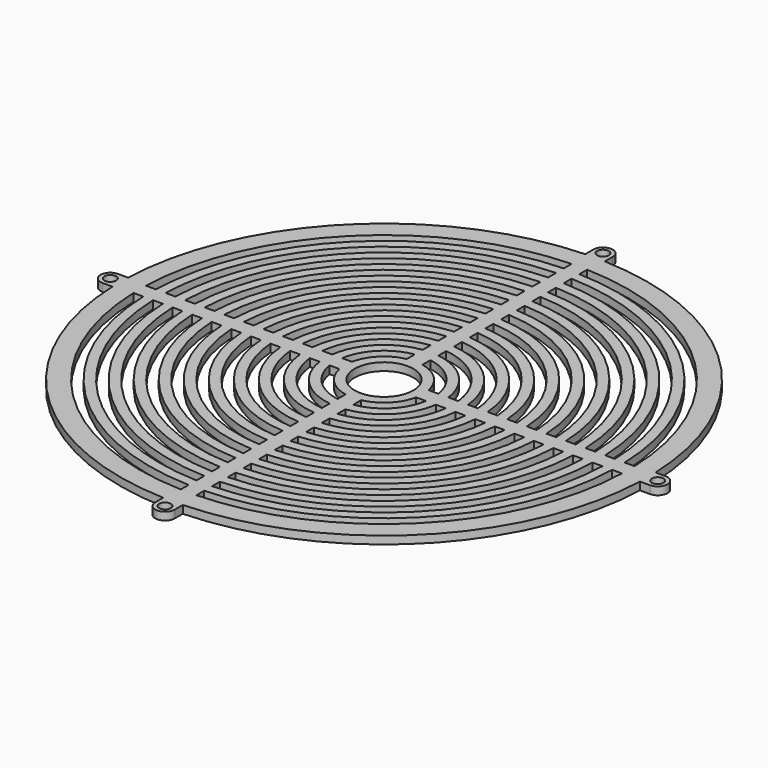
from build123d import *

# Parameters (mm, degrees)
F0_R     = 7.5
F1_DEPTH = 2
F2_D     = 3
F2_DEPTH = 4.5


with BuildPart() as f1:
    # F0 (on Top) → F1 (new body)
    with BuildSketch(Plane.XY):
        with BuildLine():
            Line((-2.5, 70), (-2.5, 67.453688))
            ThreePointArc((-2.5, 67.453688), (-47.729708, 47.729708), (-67.453688, 2.5))
            Line((-67.453688, 2.5), (-70, 2.5))
            ThreePointArc((-70, 2.5), (-72.5, 0), (-70, -2.5))
            Line((-70, -2.5), (-67.453688, -2.5))
            ThreePointArc((-67.453688, -2.5), (-47.729708, -47.729708), (-2.5, -67.453688))
            Line((-2.5, -67.453688), (-2.5, -70))
            ThreePointArc((-2.5, -70), (0, -72.5), (2.5, -70))
            Line((2.5, -70), (2.5, -67.453688))
            ThreePointArc((2.5, -67.453688), (47.729708, -47.729708), (67.453688, -2.5))
            Line((67.453688, -2.5), (70, -2.5))
            ThreePointArc((70, -2.5), (72.5, 0), (70, 2.5))
            Line((70, 2.5), (67.453688, 2.5))
            ThreePointArc((67.453688, 2.5), (47.729708, 47.729708), (2.5, 67.453688))
            Line((2.5, 67.453688), (2.5, 70))
            ThreePointArc((2.5, 70), (0, 72.5), (-2.5, 70))
        make_face()
        with BuildLine():
            ThreePointArc((-2, -62.467992), (-44.194174, -44.194174), (-62.467992, -2))
            Line((-62.467992, -2), (-59.966657, -2))
            ThreePointArc((-59.966657, -2), (-42.426407, -42.426407), (-2, -59.966657))
            Line((-2, -59.966657), (-2, -62.467992))
        make_face(mode=Mode.SUBTRACT)
        with BuildLine():
            ThreePointArc((-2, -57.465207), (-40.65864, -40.65864), (-57.465207, -2))
            Line((-57.465207, -2), (-54.963624, -2))
            ThreePointArc((-54.963624, -2), (-38.890873, -38.890873), (-2, -54.963624))
            Line((-2, -54.963624), (-2, -57.465207))
        make_face(mode=Mode.SUBTRACT)
        with BuildLine():
            ThreePointArc((-2, -52.461891), (-37.123106, -37.123106), (-52.461891, -2))
            Line((-52.461891, -2), (-49.959984, -2))
            ThreePointArc((-49.959984, -2), (-35.355339, -35.355339), (-2, -49.959984))
            Line((-2, -49.959984), (-2, -52.461891))
        make_face(mode=Mode.SUBTRACT)
        with BuildLine():
            ThreePointArc((-2, -47.457876), (-33.587572, -33.587572), (-47.457876, -2))
            Line((-47.457876, -2), (-44.955534, -2))
            ThreePointArc((-44.955534, -2), (-31.819805, -31.819805), (-2, -44.955534))
            Line((-2, -44.955534), (-2, -47.457876))
        make_face(mode=Mode.SUBTRACT)
        with BuildLine():
            ThreePointArc((-2, -42.452915), (-30.052038, -30.052038), (-42.452915, -2))
            Line((-42.452915, -2), (-39.949969, -2))
            ThreePointArc((-39.949969, -2), (-28.284271, -28.284271), (-2, -39.949969))
            Line((-2, -39.949969), (-2, -42.452915))
        make_face(mode=Mode.SUBTRACT)
        with BuildLine():
            ThreePointArc((-2, -37.446629), (-26.516504, -26.516504), (-37.446629, -2))
            Line((-37.446629, -2), (-34.94281, -2))
            ThreePointArc((-34.94281, -2), (-24.748737, -24.748737), (-2, -34.94281))
            Line((-2, -34.94281), (-2, -37.446629))
        make_face(mode=Mode.SUBTRACT)
        with BuildLine():
            ThreePointArc((-2, -32.438403), (-22.98097, -22.98097), (-32.438403, -2))
            Line((-32.438403, -2), (-29.933259, -2))
            ThreePointArc((-29.933259, -2), (-21.213203, -21.213203), (-2, -29.933259))
            Line((-2, -29.933259), (-2, -32.438403))
        make_face(mode=Mode.SUBTRACT)
        with BuildLine():
            ThreePointArc((-2, -27.427176), (-19.445436, -19.445436), (-27.427176, -2))
            Line((-27.427176, -2), (-24.919872, -2))
            ThreePointArc((-24.919872, -2), (-17.67767, -17.67767), (-2, -24.919872))
            Line((-2, -24.919872), (-2, -27.427176))
        make_face(mode=Mode.SUBTRACT)
        with BuildLine():
            ThreePointArc((-2, -22.410935), (-15.909903, -15.909903), (-22.410935, -2))
            Line((-22.410935, -2), (-19.899749, -2))
            ThreePointArc((-19.899749, -2), (-14.142136, -14.142136), (-2, -19.899749))
            Line((-2, -19.899749), (-2, -22.410935))
        make_face(mode=Mode.SUBTRACT)
        with BuildLine():
            ThreePointArc((-2, -17.385339), (-12.374369, -12.374369), (-17.385339, -2))
            Line((-17.385339, -2), (-14.866069, -2))
            ThreePointArc((-14.866069, -2), (-10.606602, -10.606602), (-2, -14.866069))
            Line((-2, -14.866069), (-2, -17.385339))
        make_face(mode=Mode.SUBTRACT)
        with BuildLine():
            Line((-12.338963, -2), (-9.797959, -2))
            ThreePointArc((-9.797959, -2), (-7.071068, -7.071068), (-2, -9.797959))
            Line((-2, -9.797959), (-2, -12.338963))
            ThreePointArc((-2, -12.338963), (-8.838835, -8.838835), (-12.338963, -2))
        make_face(mode=Mode.SUBTRACT)
        with BuildLine():
            Line((2, -62.467992), (2, -59.966657))
            ThreePointArc((2, -59.966657), (42.426407, -42.426407), (59.966657, -2))
            Line((59.966657, -2), (62.467992, -2))
            ThreePointArc((62.467992, -2), (44.194174, -44.194174), (2, -62.467992))
        make_face(mode=Mode.SUBTRACT)
        with BuildLine():
            ThreePointArc((57.465207, -2), (40.65864, -40.65864), (2, -57.465207))
            Line((2, -57.465207), (2, -54.963624))
            ThreePointArc((2, -54.963624), (38.890873, -38.890873), (54.963624, -2))
            Line((54.963624, -2), (57.465207, -2))
        make_face(mode=Mode.SUBTRACT)
        with BuildLine():
            Line((2, -52.461891), (2, -49.959984))
            ThreePointArc((2, -49.959984), (35.355339, -35.355339), (49.959984, -2))
            Line((49.959984, -2), (52.461891, -2))
            ThreePointArc((52.461891, -2), (37.123106, -37.123106), (2, -52.461891))
        make_face(mode=Mode.SUBTRACT)
        with BuildLine():
            Line((2, -47.457876), (2, -44.955534))
            ThreePointArc((2, -44.955534), (31.819805, -31.819805), (44.955534, -2))
            Line((44.955534, -2), (47.457876, -2))
            ThreePointArc((47.457876, -2), (33.587572, -33.587572), (2, -47.457876))
        make_face(mode=Mode.SUBTRACT)
        with BuildLine():
            Line((2, -42.452915), (2, -39.949969))
            ThreePointArc((2, -39.949969), (28.284271, -28.284271), (39.949969, -2))
            Line((39.949969, -2), (42.452915, -2))
            ThreePointArc((42.452915, -2), (30.052038, -30.052038), (2, -42.452915))
        make_face(mode=Mode.SUBTRACT)
        with BuildLine():
            Line((2, -37.446629), (2, -34.94281))
            ThreePointArc((2, -34.94281), (24.748737, -24.748737), (34.94281, -2))
            Line((34.94281, -2), (37.446629, -2))
            ThreePointArc((37.446629, -2), (26.516504, -26.516504), (2, -37.446629))
        make_face(mode=Mode.SUBTRACT)
        with BuildLine():
            Line((2, -32.438403), (2, -29.933259))
            ThreePointArc((2, -29.933259), (21.213203, -21.213203), (29.933259, -2))
            Line((29.933259, -2), (32.438403, -2))
            ThreePointArc((32.438403, -2), (22.98097, -22.98097), (2, -32.438403))
        make_face(mode=Mode.SUBTRACT)
        with BuildLine():
            Line((2, -27.427176), (2, -24.919872))
            ThreePointArc((2, -24.919872), (17.67767, -17.67767), (24.919872, -2))
            Line((24.919872, -2), (27.427176, -2))
            ThreePointArc((27.427176, -2), (19.445436, -19.445436), (2, -27.427176))
        make_face(mode=Mode.SUBTRACT)
        with BuildLine():
            Line((2, -22.410935), (2, -19.899749))
            ThreePointArc((2, -19.899749), (14.142136, -14.142136), (19.899749, -2))
            Line((19.899749, -2), (22.410935, -2))
            ThreePointArc((22.410935, -2), (15.909903, -15.909903), (2, -22.410935))
        make_face(mode=Mode.SUBTRACT)
        with BuildLine():
            Line((2, -17.385339), (2, -14.866069))
            ThreePointArc((2, -14.866069), (10.606602, -10.606602), (14.866069, -2))
            Line((14.866069, -2), (17.385339, -2))
            ThreePointArc((17.385339, -2), (12.374369, -12.374369), (2, -17.385339))
        make_face(mode=Mode.SUBTRACT)
        with BuildLine():
            Line((2, -12.338963), (2, -9.797959))
            ThreePointArc((2, -9.797959), (7.071068, -7.071068), (9.797959, -2))
            Line((9.797959, -2), (12.338963, -2))
            ThreePointArc((12.338963, -2), (8.838835, -8.838835), (2, -12.338963))
        make_face(mode=Mode.SUBTRACT)
        with BuildLine():
            Line((-9.797959, 2), (-12.338963, 2))
            ThreePointArc((-12.338963, 2), (-8.838835, 8.838835), (-2, 12.338963))
            Line((-2, 12.338963), (-2, 9.797959))
            ThreePointArc((-2, 9.797959), (-7.071068, 7.071068), (-9.797959, 2))
        make_face(mode=Mode.SUBTRACT)
        with BuildLine():
            Line((-14.866069, 2), (-17.385339, 2))
            ThreePointArc((-17.385339, 2), (-12.374369, 12.374369), (-2, 17.385339))
            Line((-2, 17.385339), (-2, 14.866069))
            ThreePointArc((-2, 14.866069), (-10.606602, 10.606602), (-14.866069, 2))
        make_face(mode=Mode.SUBTRACT)
        with BuildLine():
            Line((-19.899749, 2), (-22.410935, 2))
            ThreePointArc((-22.410935, 2), (-15.909903, 15.909903), (-2, 22.410935))
            Line((-2, 22.410935), (-2, 19.899749))
            ThreePointArc((-2, 19.899749), (-14.142136, 14.142136), (-19.899749, 2))
        make_face(mode=Mode.SUBTRACT)
        with BuildLine():
            Line((-24.919872, 2), (-27.427176, 2))
            ThreePointArc((-27.427176, 2), (-19.445436, 19.445436), (-2, 27.427176))
            Line((-2, 27.427176), (-2, 24.919872))
            ThreePointArc((-2, 24.919872), (-17.67767, 17.67767), (-24.919872, 2))
        make_face(mode=Mode.SUBTRACT)
        with BuildLine():
            Line((-29.933259, 2), (-32.438403, 2))
            ThreePointArc((-32.438403, 2), (-22.98097, 22.98097), (-2, 32.438403))
            Line((-2, 32.438403), (-2, 29.933259))
            ThreePointArc((-2, 29.933259), (-21.213203, 21.213203), (-29.933259, 2))
        make_face(mode=Mode.SUBTRACT)
        with BuildLine():
            Line((-34.94281, 2), (-37.446629, 2))
            ThreePointArc((-37.446629, 2), (-26.516504, 26.516504), (-2, 37.446629))
            Line((-2, 37.446629), (-2, 34.94281))
            ThreePointArc((-2, 34.94281), (-24.748737, 24.748737), (-34.94281, 2))
        make_face(mode=Mode.SUBTRACT)
        with BuildLine():
            Line((-39.949969, 2), (-42.452915, 2))
            ThreePointArc((-42.452915, 2), (-30.052038, 30.052038), (-2, 42.452915))
            Line((-2, 42.452915), (-2, 39.949969))
            ThreePointArc((-2, 39.949969), (-28.284271, 28.284271), (-39.949969, 2))
        make_face(mode=Mode.SUBTRACT)
        with BuildLine():
            Line((-44.955534, 2), (-47.457876, 2))
            ThreePointArc((-47.457876, 2), (-33.587572, 33.587572), (-2, 47.457876))
            Line((-2, 47.457876), (-2, 44.955534))
            ThreePointArc((-2, 44.955534), (-31.819805, 31.819805), (-44.955534, 2))
        make_face(mode=Mode.SUBTRACT)
        with BuildLine():
            Line((-49.959984, 2), (-52.461891, 2))
            ThreePointArc((-52.461891, 2), (-37.123106, 37.123106), (-2, 52.461891))
            Line((-2, 52.461891), (-2, 49.959984))
            ThreePointArc((-2, 49.959984), (-35.355339, 35.355339), (-49.959984, 2))
        make_face(mode=Mode.SUBTRACT)
        with BuildLine():
            Line((-54.963624, 2), (-57.465207, 2))
            ThreePointArc((-57.465207, 2), (-40.65864, 40.65864), (-2, 57.465207))
            Line((-2, 57.465207), (-2, 54.963624))
            ThreePointArc((-2, 54.963624), (-38.890873, 38.890873), (-54.963624, 2))
        make_face(mode=Mode.SUBTRACT)
        with BuildLine():
            ThreePointArc((-62.467992, 2), (-44.194174, 44.194174), (-2, 62.467992))
            Line((-2, 62.467992), (-2, 59.966657))
            ThreePointArc((-2, 59.966657), (-42.426407, 42.426407), (-59.966657, 2))
            Line((-59.966657, 2), (-62.467992, 2))
        make_face(mode=Mode.SUBTRACT)
        Circle(F0_R, mode=Mode.SUBTRACT)
        with BuildLine():
            Line((2, 9.797959), (2, 12.338963))
            ThreePointArc((2, 12.338963), (8.838835, 8.838835), (12.338963, 2))
            Line((12.338963, 2), (9.797959, 2))
            ThreePointArc((9.797959, 2), (7.071068, 7.071068), (2, 9.797959))
        make_face(mode=Mode.SUBTRACT)
        with BuildLine():
            Line((2, 14.866069), (2, 17.385339))
            ThreePointArc((2, 17.385339), (12.374369, 12.374369), (17.385339, 2))
            Line((17.385339, 2), (14.866069, 2))
            ThreePointArc((14.866069, 2), (10.606602, 10.606602), (2, 14.866069))
        make_face(mode=Mode.SUBTRACT)
        with BuildLine():
            Line((2, 19.899749), (2, 22.410935))
            ThreePointArc((2, 22.410935), (15.909903, 15.909903), (22.410935, 2))
            Line((22.410935, 2), (19.899749, 2))
            ThreePointArc((19.899749, 2), (14.142136, 14.142136), (2, 19.899749))
        make_face(mode=Mode.SUBTRACT)
        with BuildLine():
            Line((2, 24.919872), (2, 27.427176))
            ThreePointArc((2, 27.427176), (19.445436, 19.445436), (27.427176, 2))
            Line((27.427176, 2), (24.919872, 2))
            ThreePointArc((24.919872, 2), (17.67767, 17.67767), (2, 24.919872))
        make_face(mode=Mode.SUBTRACT)
        with BuildLine():
            Line((2, 29.933259), (2, 32.438403))
            ThreePointArc((2, 32.438403), (22.98097, 22.98097), (32.438403, 2))
            Line((32.438403, 2), (29.933259, 2))
            ThreePointArc((29.933259, 2), (21.213203, 21.213203), (2, 29.933259))
        make_face(mode=Mode.SUBTRACT)
        with BuildLine():
            Line((2, 34.94281), (2, 37.446629))
            ThreePointArc((2, 37.446629), (26.516504, 26.516504), (37.446629, 2))
            Line((37.446629, 2), (34.94281, 2))
            ThreePointArc((34.94281, 2), (24.748737, 24.748737), (2, 34.94281))
        make_face(mode=Mode.SUBTRACT)
        with BuildLine():
            Line((2, 39.949969), (2, 42.452915))
            ThreePointArc((2, 42.452915), (30.052038, 30.052038), (42.452915, 2))
            Line((42.452915, 2), (39.949969, 2))
            ThreePointArc((39.949969, 2), (28.284271, 28.284271), (2, 39.949969))
        make_face(mode=Mode.SUBTRACT)
        with BuildLine():
            Line((2, 44.955534), (2, 47.457876))
            ThreePointArc((2, 47.457876), (33.587572, 33.587572), (47.457876, 2))
            Line((47.457876, 2), (44.955534, 2))
            ThreePointArc((44.955534, 2), (31.819805, 31.819805), (2, 44.955534))
        make_face(mode=Mode.SUBTRACT)
        with BuildLine():
            Line((2, 49.959984), (2, 52.461891))
            ThreePointArc((2, 52.461891), (37.123106, 37.123106), (52.461891, 2))
            Line((52.461891, 2), (49.959984, 2))
            ThreePointArc((49.959984, 2), (35.355339, 35.355339), (2, 49.959984))
        make_face(mode=Mode.SUBTRACT)
        with BuildLine():
            Line((2, 54.963624), (2, 57.465207))
            ThreePointArc((2, 57.465207), (40.65864, 40.65864), (57.465207, 2))
            Line((57.465207, 2), (54.963624, 2))
            ThreePointArc((54.963624, 2), (38.890873, 38.890873), (2, 54.963624))
        make_face(mode=Mode.SUBTRACT)
        with BuildLine():
            Line((2, 59.966657), (2, 62.467992))
            ThreePointArc((2, 62.467992), (44.194174, 44.194174), (62.467992, 2))
            Line((62.467992, 2), (59.966657, 2))
            ThreePointArc((59.966657, 2), (42.426407, 42.426407), (2, 59.966657))
        make_face(mode=Mode.SUBTRACT)
        with BuildLine():
            Line((-2.5, 70), (-2.5, 67.453688))
            ThreePointArc((-2.5, 67.453688), (-47.729708, 47.729708), (-67.453688, 2.5))
            Line((-67.453688, 2.5), (-70, 2.5))
            ThreePointArc((-70, 2.5), (-72.5, 0), (-70, -2.5))
            Line((-70, -2.5), (-67.453688, -2.5))
            ThreePointArc((-67.453688, -2.5), (-47.729708, -47.729708), (-2.5, -67.453688))
            Line((-2.5, -67.453688), (-2.5, -70))
            ThreePointArc((-2.5, -70), (0, -72.5), (2.5, -70))
            Line((2.5, -70), (2.5, -67.453688))
            ThreePointArc((2.5, -67.453688), (47.729708, -47.729708), (67.453688, -2.5))
            Line((67.453688, -2.5), (70, -2.5))
            ThreePointArc((70, -2.5), (72.5, 0), (70, 2.5))
            Line((70, 2.5), (67.453688, 2.5))
            ThreePointArc((67.453688, 2.5), (47.729708, 47.729708), (2.5, 67.453688))
            Line((2.5, 67.453688), (2.5, 70))
            ThreePointArc((2.5, 70), (0, 72.5), (-2.5, 70))
        make_face()
        with BuildLine():
            ThreePointArc((-2, -62.467992), (-44.194174, -44.194174), (-62.467992, -2))
            Line((-62.467992, -2), (-59.966657, -2))
            ThreePointArc((-59.966657, -2), (-42.426407, -42.426407), (-2, -59.966657))
            Line((-2, -59.966657), (-2, -62.467992))
        make_face(mode=Mode.SUBTRACT)
        with BuildLine():
            ThreePointArc((-2, -57.465207), (-40.65864, -40.65864), (-57.465207, -2))
            Line((-57.465207, -2), (-54.963624, -2))
            ThreePointArc((-54.963624, -2), (-38.890873, -38.890873), (-2, -54.963624))
            Line((-2, -54.963624), (-2, -57.465207))
        make_face(mode=Mode.SUBTRACT)
        with BuildLine():
            ThreePointArc((-2, -52.461891), (-37.123106, -37.123106), (-52.461891, -2))
            Line((-52.461891, -2), (-49.959984, -2))
            ThreePointArc((-49.959984, -2), (-35.355339, -35.355339), (-2, -49.959984))
            Line((-2, -49.959984), (-2, -52.461891))
        make_face(mode=Mode.SUBTRACT)
        with BuildLine():
            ThreePointArc((-2, -47.457876), (-33.587572, -33.587572), (-47.457876, -2))
            Line((-47.457876, -2), (-44.955534, -2))
            ThreePointArc((-44.955534, -2), (-31.819805, -31.819805), (-2, -44.955534))
            Line((-2, -44.955534), (-2, -47.457876))
        make_face(mode=Mode.SUBTRACT)
        with BuildLine():
            ThreePointArc((-2, -42.452915), (-30.052038, -30.052038), (-42.452915, -2))
            Line((-42.452915, -2), (-39.949969, -2))
            ThreePointArc((-39.949969, -2), (-28.284271, -28.284271), (-2, -39.949969))
            Line((-2, -39.949969), (-2, -42.452915))
        make_face(mode=Mode.SUBTRACT)
        with BuildLine():
            ThreePointArc((-2, -37.446629), (-26.516504, -26.516504), (-37.446629, -2))
            Line((-37.446629, -2), (-34.94281, -2))
            ThreePointArc((-34.94281, -2), (-24.748737, -24.748737), (-2, -34.94281))
            Line((-2, -34.94281), (-2, -37.446629))
        make_face(mode=Mode.SUBTRACT)
        with BuildLine():
            ThreePointArc((-2, -32.438403), (-22.98097, -22.98097), (-32.438403, -2))
            Line((-32.438403, -2), (-29.933259, -2))
            ThreePointArc((-29.933259, -2), (-21.213203, -21.213203), (-2, -29.933259))
            Line((-2, -29.933259), (-2, -32.438403))
        make_face(mode=Mode.SUBTRACT)
        with BuildLine():
            ThreePointArc((-2, -27.427176), (-19.445436, -19.445436), (-27.427176, -2))
            Line((-27.427176, -2), (-24.919872, -2))
            ThreePointArc((-24.919872, -2), (-17.67767, -17.67767), (-2, -24.919872))
            Line((-2, -24.919872), (-2, -27.427176))
        make_face(mode=Mode.SUBTRACT)
        with BuildLine():
            ThreePointArc((-2, -22.410935), (-15.909903, -15.909903), (-22.410935, -2))
            Line((-22.410935, -2), (-19.899749, -2))
            ThreePointArc((-19.899749, -2), (-14.142136, -14.142136), (-2, -19.899749))
            Line((-2, -19.899749), (-2, -22.410935))
        make_face(mode=Mode.SUBTRACT)
        with BuildLine():
            ThreePointArc((-2, -17.385339), (-12.374369, -12.374369), (-17.385339, -2))
            Line((-17.385339, -2), (-14.866069, -2))
            ThreePointArc((-14.866069, -2), (-10.606602, -10.606602), (-2, -14.866069))
            Line((-2, -14.866069), (-2, -17.385339))
        make_face(mode=Mode.SUBTRACT)
        with BuildLine():
            Line((-12.338963, -2), (-9.797959, -2))
            ThreePointArc((-9.797959, -2), (-7.071068, -7.071068), (-2, -9.797959))
            Line((-2, -9.797959), (-2, -12.338963))
            ThreePointArc((-2, -12.338963), (-8.838835, -8.838835), (-12.338963, -2))
        make_face(mode=Mode.SUBTRACT)
        with BuildLine():
            Line((2, -62.467992), (2, -59.966657))
            ThreePointArc((2, -59.966657), (42.426407, -42.426407), (59.966657, -2))
            Line((59.966657, -2), (62.467992, -2))
            ThreePointArc((62.467992, -2), (44.194174, -44.194174), (2, -62.467992))
        make_face(mode=Mode.SUBTRACT)
        with BuildLine():
            ThreePointArc((57.465207, -2), (40.65864, -40.65864), (2, -57.465207))
            Line((2, -57.465207), (2, -54.963624))
            ThreePointArc((2, -54.963624), (38.890873, -38.890873), (54.963624, -2))
            Line((54.963624, -2), (57.465207, -2))
        make_face(mode=Mode.SUBTRACT)
        with BuildLine():
            Line((2, -52.461891), (2, -49.959984))
            ThreePointArc((2, -49.959984), (35.355339, -35.355339), (49.959984, -2))
            Line((49.959984, -2), (52.461891, -2))
            ThreePointArc((52.461891, -2), (37.123106, -37.123106), (2, -52.461891))
        make_face(mode=Mode.SUBTRACT)
        with BuildLine():
            Line((2, -47.457876), (2, -44.955534))
            ThreePointArc((2, -44.955534), (31.819805, -31.819805), (44.955534, -2))
            Line((44.955534, -2), (47.457876, -2))
            ThreePointArc((47.457876, -2), (33.587572, -33.587572), (2, -47.457876))
        make_face(mode=Mode.SUBTRACT)
        with BuildLine():
            Line((2, -42.452915), (2, -39.949969))
            ThreePointArc((2, -39.949969), (28.284271, -28.284271), (39.949969, -2))
            Line((39.949969, -2), (42.452915, -2))
            ThreePointArc((42.452915, -2), (30.052038, -30.052038), (2, -42.452915))
        make_face(mode=Mode.SUBTRACT)
        with BuildLine():
            Line((2, -37.446629), (2, -34.94281))
            ThreePointArc((2, -34.94281), (24.748737, -24.748737), (34.94281, -2))
            Line((34.94281, -2), (37.446629, -2))
            ThreePointArc((37.446629, -2), (26.516504, -26.516504), (2, -37.446629))
        make_face(mode=Mode.SUBTRACT)
        with BuildLine():
            Line((2, -32.438403), (2, -29.933259))
            ThreePointArc((2, -29.933259), (21.213203, -21.213203), (29.933259, -2))
            Line((29.933259, -2), (32.438403, -2))
            ThreePointArc((32.438403, -2), (22.98097, -22.98097), (2, -32.438403))
        make_face(mode=Mode.SUBTRACT)
        with BuildLine():
            Line((2, -27.427176), (2, -24.919872))
            ThreePointArc((2, -24.919872), (17.67767, -17.67767), (24.919872, -2))
            Line((24.919872, -2), (27.427176, -2))
            ThreePointArc((27.427176, -2), (19.445436, -19.445436), (2, -27.427176))
        make_face(mode=Mode.SUBTRACT)
        with BuildLine():
            Line((2, -22.410935), (2, -19.899749))
            ThreePointArc((2, -19.899749), (14.142136, -14.142136), (19.899749, -2))
            Line((19.899749, -2), (22.410935, -2))
            ThreePointArc((22.410935, -2), (15.909903, -15.909903), (2, -22.410935))
        make_face(mode=Mode.SUBTRACT)
        with BuildLine():
            Line((2, -17.385339), (2, -14.866069))
            ThreePointArc((2, -14.866069), (10.606602, -10.606602), (14.866069, -2))
            Line((14.866069, -2), (17.385339, -2))
            ThreePointArc((17.385339, -2), (12.374369, -12.374369), (2, -17.385339))
        make_face(mode=Mode.SUBTRACT)
        with BuildLine():
            Line((2, -12.338963), (2, -9.797959))
            ThreePointArc((2, -9.797959), (7.071068, -7.071068), (9.797959, -2))
            Line((9.797959, -2), (12.338963, -2))
            ThreePointArc((12.338963, -2), (8.838835, -8.838835), (2, -12.338963))
        make_face(mode=Mode.SUBTRACT)
        with BuildLine():
            Line((-9.797959, 2), (-12.338963, 2))
            ThreePointArc((-12.338963, 2), (-8.838835, 8.838835), (-2, 12.338963))
            Line((-2, 12.338963), (-2, 9.797959))
            ThreePointArc((-2, 9.797959), (-7.071068, 7.071068), (-9.797959, 2))
        make_face(mode=Mode.SUBTRACT)
        with BuildLine():
            Line((-14.866069, 2), (-17.385339, 2))
            ThreePointArc((-17.385339, 2), (-12.374369, 12.374369), (-2, 17.385339))
            Line((-2, 17.385339), (-2, 14.866069))
            ThreePointArc((-2, 14.866069), (-10.606602, 10.606602), (-14.866069, 2))
        make_face(mode=Mode.SUBTRACT)
        with BuildLine():
            Line((-19.899749, 2), (-22.410935, 2))
            ThreePointArc((-22.410935, 2), (-15.909903, 15.909903), (-2, 22.410935))
            Line((-2, 22.410935), (-2, 19.899749))
            ThreePointArc((-2, 19.899749), (-14.142136, 14.142136), (-19.899749, 2))
        make_face(mode=Mode.SUBTRACT)
        with BuildLine():
            Line((-24.919872, 2), (-27.427176, 2))
            ThreePointArc((-27.427176, 2), (-19.445436, 19.445436), (-2, 27.427176))
            Line((-2, 27.427176), (-2, 24.919872))
            ThreePointArc((-2, 24.919872), (-17.67767, 17.67767), (-24.919872, 2))
        make_face(mode=Mode.SUBTRACT)
        with BuildLine():
            Line((-29.933259, 2), (-32.438403, 2))
            ThreePointArc((-32.438403, 2), (-22.98097, 22.98097), (-2, 32.438403))
            Line((-2, 32.438403), (-2, 29.933259))
            ThreePointArc((-2, 29.933259), (-21.213203, 21.213203), (-29.933259, 2))
        make_face(mode=Mode.SUBTRACT)
        with BuildLine():
            Line((-34.94281, 2), (-37.446629, 2))
            ThreePointArc((-37.446629, 2), (-26.516504, 26.516504), (-2, 37.446629))
            Line((-2, 37.446629), (-2, 34.94281))
            ThreePointArc((-2, 34.94281), (-24.748737, 24.748737), (-34.94281, 2))
        make_face(mode=Mode.SUBTRACT)
        with BuildLine():
            Line((-39.949969, 2), (-42.452915, 2))
            ThreePointArc((-42.452915, 2), (-30.052038, 30.052038), (-2, 42.452915))
            Line((-2, 42.452915), (-2, 39.949969))
            ThreePointArc((-2, 39.949969), (-28.284271, 28.284271), (-39.949969, 2))
        make_face(mode=Mode.SUBTRACT)
        with BuildLine():
            Line((-44.955534, 2), (-47.457876, 2))
            ThreePointArc((-47.457876, 2), (-33.587572, 33.587572), (-2, 47.457876))
            Line((-2, 47.457876), (-2, 44.955534))
            ThreePointArc((-2, 44.955534), (-31.819805, 31.819805), (-44.955534, 2))
        make_face(mode=Mode.SUBTRACT)
        with BuildLine():
            Line((-49.959984, 2), (-52.461891, 2))
            ThreePointArc((-52.461891, 2), (-37.123106, 37.123106), (-2, 52.461891))
            Line((-2, 52.461891), (-2, 49.959984))
            ThreePointArc((-2, 49.959984), (-35.355339, 35.355339), (-49.959984, 2))
        make_face(mode=Mode.SUBTRACT)
        with BuildLine():
            Line((-54.963624, 2), (-57.465207, 2))
            ThreePointArc((-57.465207, 2), (-40.65864, 40.65864), (-2, 57.465207))
            Line((-2, 57.465207), (-2, 54.963624))
            ThreePointArc((-2, 54.963624), (-38.890873, 38.890873), (-54.963624, 2))
        make_face(mode=Mode.SUBTRACT)
        with BuildLine():
            ThreePointArc((-62.467992, 2), (-44.194174, 44.194174), (-2, 62.467992))
            Line((-2, 62.467992), (-2, 59.966657))
            ThreePointArc((-2, 59.966657), (-42.426407, 42.426407), (-59.966657, 2))
            Line((-59.966657, 2), (-62.467992, 2))
        make_face(mode=Mode.SUBTRACT)
        Circle(F0_R, mode=Mode.SUBTRACT)
        with BuildLine():
            Line((2, 9.797959), (2, 12.338963))
            ThreePointArc((2, 12.338963), (8.838835, 8.838835), (12.338963, 2))
            Line((12.338963, 2), (9.797959, 2))
            ThreePointArc((9.797959, 2), (7.071068, 7.071068), (2, 9.797959))
        make_face(mode=Mode.SUBTRACT)
        with BuildLine():
            Line((2, 14.866069), (2, 17.385339))
            ThreePointArc((2, 17.385339), (12.374369, 12.374369), (17.385339, 2))
            Line((17.385339, 2), (14.866069, 2))
            ThreePointArc((14.866069, 2), (10.606602, 10.606602), (2, 14.866069))
        make_face(mode=Mode.SUBTRACT)
        with BuildLine():
            Line((2, 19.899749), (2, 22.410935))
            ThreePointArc((2, 22.410935), (15.909903, 15.909903), (22.410935, 2))
            Line((22.410935, 2), (19.899749, 2))
            ThreePointArc((19.899749, 2), (14.142136, 14.142136), (2, 19.899749))
        make_face(mode=Mode.SUBTRACT)
        with BuildLine():
            Line((2, 24.919872), (2, 27.427176))
            ThreePointArc((2, 27.427176), (19.445436, 19.445436), (27.427176, 2))
            Line((27.427176, 2), (24.919872, 2))
            ThreePointArc((24.919872, 2), (17.67767, 17.67767), (2, 24.919872))
        make_face(mode=Mode.SUBTRACT)
        with BuildLine():
            Line((2, 29.933259), (2, 32.438403))
            ThreePointArc((2, 32.438403), (22.98097, 22.98097), (32.438403, 2))
            Line((32.438403, 2), (29.933259, 2))
            ThreePointArc((29.933259, 2), (21.213203, 21.213203), (2, 29.933259))
        make_face(mode=Mode.SUBTRACT)
        with BuildLine():
            Line((2, 34.94281), (2, 37.446629))
            ThreePointArc((2, 37.446629), (26.516504, 26.516504), (37.446629, 2))
            Line((37.446629, 2), (34.94281, 2))
            ThreePointArc((34.94281, 2), (24.748737, 24.748737), (2, 34.94281))
        make_face(mode=Mode.SUBTRACT)
        with BuildLine():
            Line((2, 39.949969), (2, 42.452915))
            ThreePointArc((2, 42.452915), (30.052038, 30.052038), (42.452915, 2))
            Line((42.452915, 2), (39.949969, 2))
            ThreePointArc((39.949969, 2), (28.284271, 28.284271), (2, 39.949969))
        make_face(mode=Mode.SUBTRACT)
        with BuildLine():
            Line((2, 44.955534), (2, 47.457876))
            ThreePointArc((2, 47.457876), (33.587572, 33.587572), (47.457876, 2))
            Line((47.457876, 2), (44.955534, 2))
            ThreePointArc((44.955534, 2), (31.819805, 31.819805), (2, 44.955534))
        make_face(mode=Mode.SUBTRACT)
        with BuildLine():
            Line((2, 49.959984), (2, 52.461891))
            ThreePointArc((2, 52.461891), (37.123106, 37.123106), (52.461891, 2))
            Line((52.461891, 2), (49.959984, 2))
            ThreePointArc((49.959984, 2), (35.355339, 35.355339), (2, 49.959984))
        make_face(mode=Mode.SUBTRACT)
        with BuildLine():
            Line((2, 54.963624), (2, 57.465207))
            ThreePointArc((2, 57.465207), (40.65864, 40.65864), (57.465207, 2))
            Line((57.465207, 2), (54.963624, 2))
            ThreePointArc((54.963624, 2), (38.890873, 38.890873), (2, 54.963624))
        make_face(mode=Mode.SUBTRACT)
        with BuildLine():
            Line((2, 59.966657), (2, 62.467992))
            ThreePointArc((2, 62.467992), (44.194174, 44.194174), (62.467992, 2))
            Line((62.467992, 2), (59.966657, 2))
            ThreePointArc((59.966657, 2), (42.426407, 42.426407), (2, 59.966657))
        make_face(mode=Mode.SUBTRACT)
    extrude(amount=F1_DEPTH)

    # F2
    with Locations(Plane(origin=(0, 0, 0), x_dir=(1, 0, 0), z_dir=(0, 0, -1))):
        with Locations((0, -70), (70, 0), (0, 70), (-70, 0)):
            Hole(F2_D / 2, depth=F2_DEPTH)


solid = f1.part
